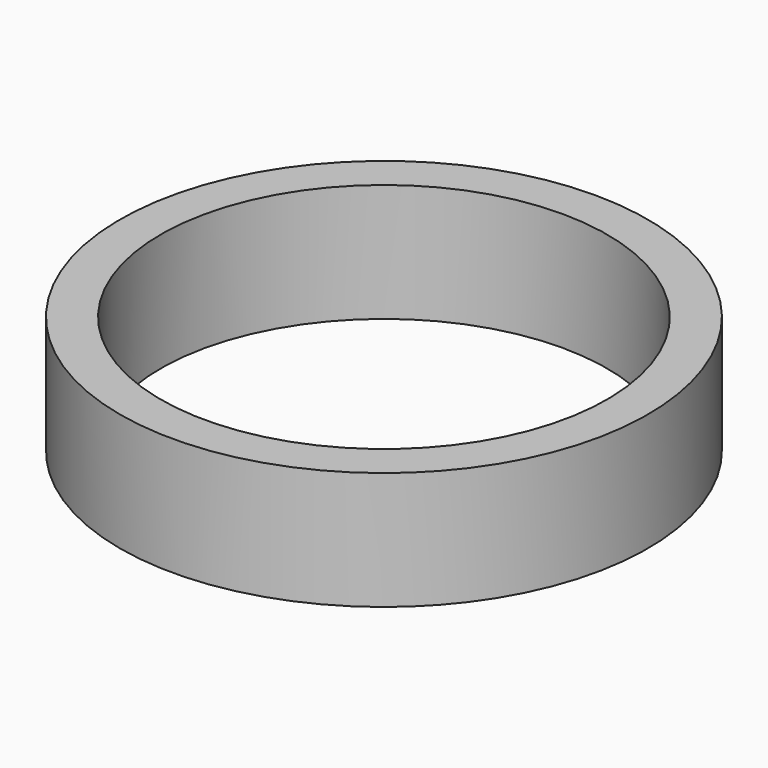
from build123d import *

# Parameters (mm, degrees)
F0_W = 11.3712074235
F0_H = 5.08
F2_T = -1.7526


with BuildPart() as f1:
    # F0 (on Right) → F1 (revolve)
    with BuildSketch(Plane.YZ):
        with Locations((5.6856037118, 2.54)):
            Rectangle(F0_W, F0_H)
    revolve(axis=Axis((0, 0, 2.54), (0, 0, -1)))

    # F2
    f2_openings = [f1.faces().sort_by_distance(p)[0] for p in [
        (0, 0, 5.08),
        (0, 0, 0),
    ]]
    offset(amount=F2_T, openings=f2_openings)


solid = f1.part
